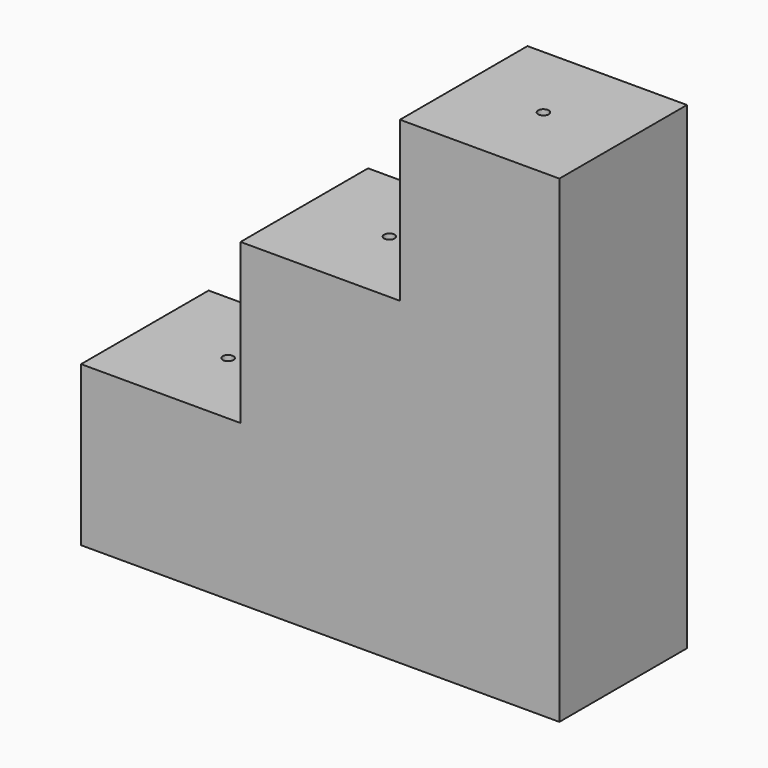
from build123d import *

# Parameters (mm, degrees)
F1_DEPTH = 300
F2_R     = 10
F3_DEPTH = 900.001


with BuildPart() as f1:
    # F0 (on Front) → F1 (new body)
    with BuildSketch(Plane.XZ):
        Polygon((-470.378462, -452.94658), (429.621538, -452.94658), (429.621538, 447.05342), (129.621538, 447.05342), (129.621538, 147.05342), (-170.378462, 147.05342), (-170.378462, -152.94658), (-470.378462, -152.94658), align=None)
    extrude(amount=F1_DEPTH)

    # F2 (on face) → F3 (cut, through all)
    with BuildSketch(Plane.XY.offset(447.05342)):
        with Locations((279.621538, -150)):
            Circle(F2_R)
        with Locations((-10.213119, -150)):
            Circle(F2_R)
        with Locations((-313.667297, -150)):
            Circle(F2_R)
    extrude(amount=-F3_DEPTH, mode=Mode.SUBTRACT)


solid = f1.part
